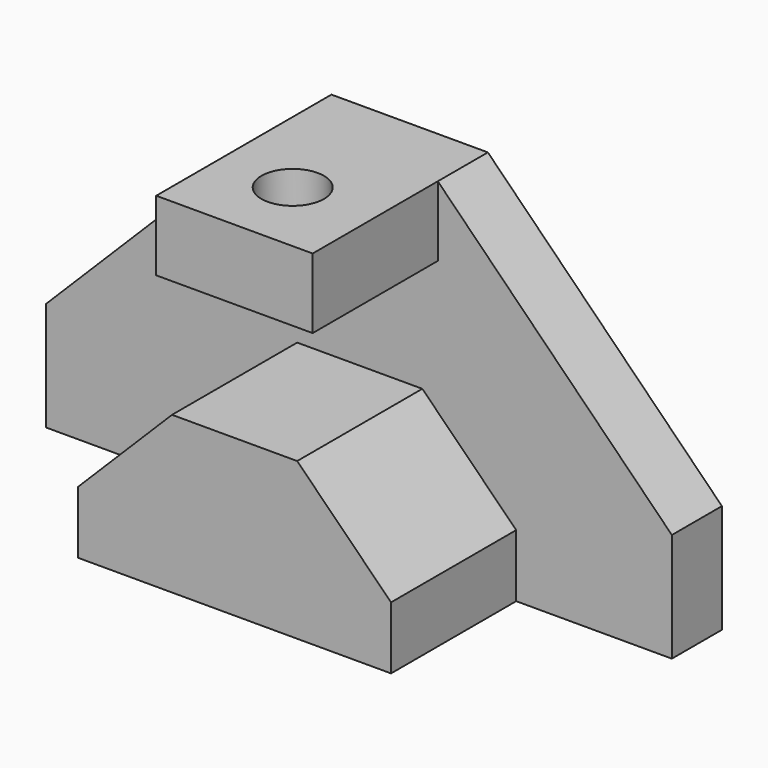
from build123d import *

# Parameters (mm, degrees)
F1_DEPTH = 12.7
F3_DEPTH = 31.75
F4_W     = 31.75
F4_H     = 14.224
F5_DEPTH = 31.75
F6_R     = 6.35
F7_DEPTH = 25.4


with BuildPart() as f1:
    # F0 (on Front) → F1 (new body)
    with BuildSketch(Plane.XZ):
        Polygon((-127, 0), (0, 0), (0, 22.098), (-47.498, 69.85), (-79.248, 69.85), (-127, 22.098), align=None)
    extrude(amount=F1_DEPTH)

    # F2 (on face) → F3 (join)
    with BuildSketch(Plane.XZ.offset(12.7)):
        Polygon((-31.5910821557, 0), (-31.5910821557, 12.7), (-50.6410821557, 31.75), (-76.0410821557, 31.75), (-95.0910821557, 12.7), (-95.0910821557, 0), align=None)
    extrude(amount=F3_DEPTH)

    # F4 (on face) → F5 (join)
    with BuildSketch(Plane.XZ.offset(12.7)):
        with Locations((-63.373, 62.738)):
            Rectangle(F4_W, F4_H)
    extrude(amount=F5_DEPTH)

    # F6 (on face) → F7 (cut)
    with BuildSketch(Plane.XY.offset(69.85)):
        with Locations((-64.1456767917, -28.702)):
            Circle(F6_R)
    extrude(amount=-F7_DEPTH, mode=Mode.SUBTRACT)


solid = f1.part
